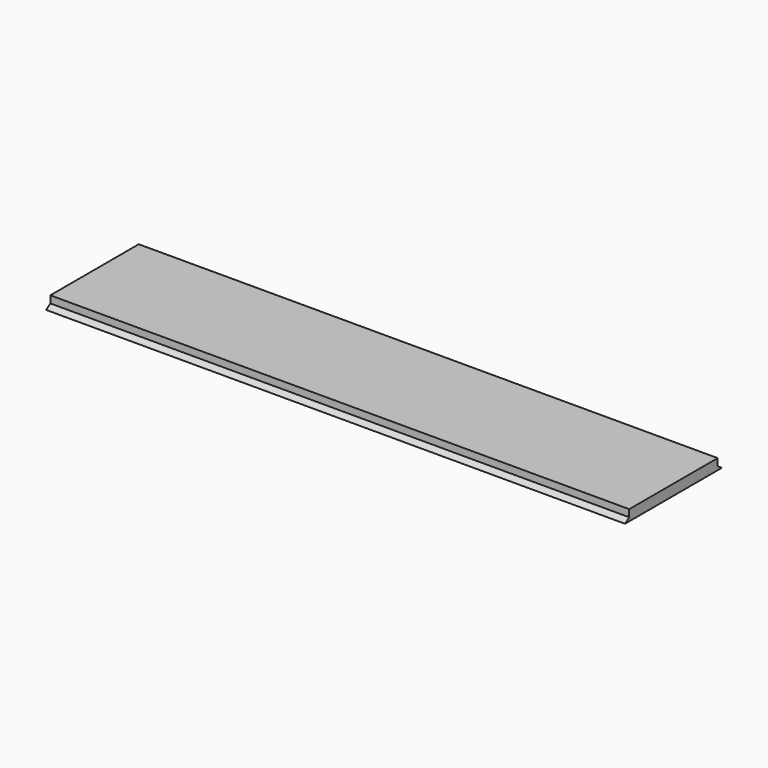
from build123d import *

# Parameters (mm, degrees)
SKETCH_W             = 162
SKETCH_H             = 33.9
PAD_DEPTH            = 3
POCKET_DEPTH         = 81.001
POCKET_DEPTH_BACK    = -81.001
POCKET001_DEPTH      = 81.001
POCKET001_DEPTH_BACK = -81.001


with BuildPart() as part:
    # Sketch → Pad (new body)
    with BuildSketch(Plane.XY):
        Rectangle(SKETCH_W, SKETCH_H)
    extrude(amount=PAD_DEPTH)

    # Sketch001 → Pocket (cut, two sides)
    with BuildSketch(Plane.YZ) as pocket_sk:
        Polygon((15.47, 3), (16.95, 3), (16.95, 0), (15.47, 1), align=None)
    extrude(amount=-POCKET_DEPTH, mode=Mode.SUBTRACT)
    extrude(pocket_sk.sketch, amount=-POCKET_DEPTH_BACK, mode=Mode.SUBTRACT)

    # MirroredSketch → Pocket001 (cut, two sides)
    with BuildSketch(Plane.YZ) as pocket001_sk:
        Polygon((-15.47, 3), (-16.95, 3), (-16.95, 0), (-15.47, 1), align=None)
    extrude(amount=-POCKET001_DEPTH, mode=Mode.SUBTRACT)
    extrude(pocket001_sk.sketch, amount=-POCKET001_DEPTH_BACK, mode=Mode.SUBTRACT)


solid = part.part
